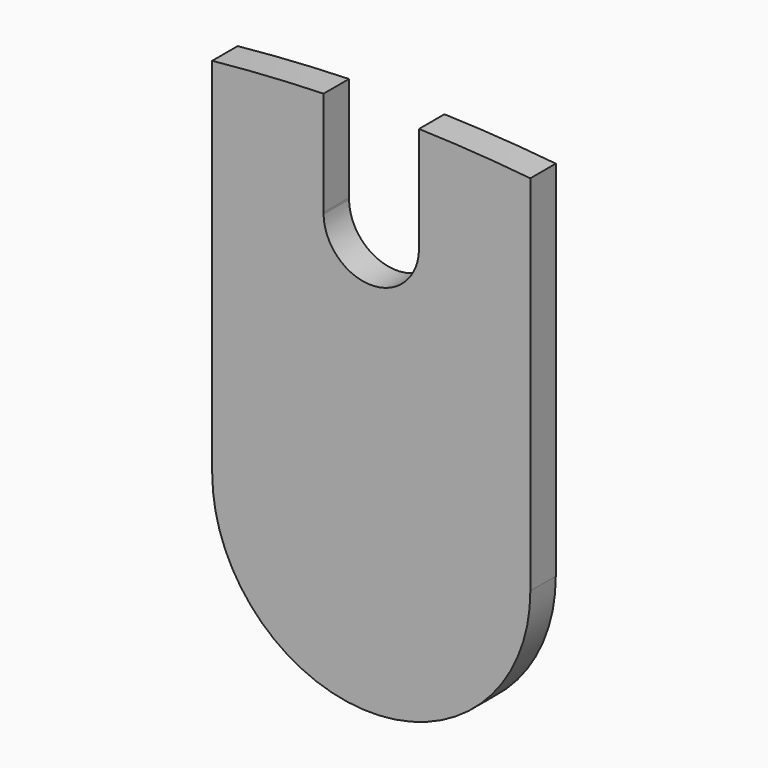
from build123d import *

# Parameters (mm, degrees)
F1_DEPTH = 6


with BuildPart() as f1:
    # F0 (on Front) → F1 (new body)
    with BuildSketch(Plane.XZ):
        with BuildLine():
            ThreePointArc((8.998838, -0.144643), (0, -9), (-8.998838, -0.144643))
            ThreePointArc((-8.998838, -0.144643), (-9, 0), (-8.998838, 0.144643))
            Line((-8.998838, 0.144643), (-8.998838, 19.865004))
            ThreePointArc((-8.998838, 19.865004), (-19.511425, 19.364835), (-30, 18.496231))
            Line((-30, 18.496231), (-30, -50))
            ThreePointArc((-30, -50), (0, -20), (30, -50))
            Line((30, -50), (30, 18.496231))
            ThreePointArc((30, 18.496231), (19.511425, 19.364835), (8.998838, 19.865004))
            Line((8.998838, 19.865004), (8.998838, 0.144643))
            ThreePointArc((8.998838, 0.144643), (8.999709, 0.072324), (9, 0))
            ThreePointArc((9, 0), (8.999709, -0.072324), (8.998838, -0.144643))
        make_face()
        with BuildLine():
            ThreePointArc((30, -50), (0, -20), (-30, -50))
            ThreePointArc((-30, -50), (0, -80), (30, -50))
        make_face()
    extrude(amount=F1_DEPTH)


solid = f1.part
